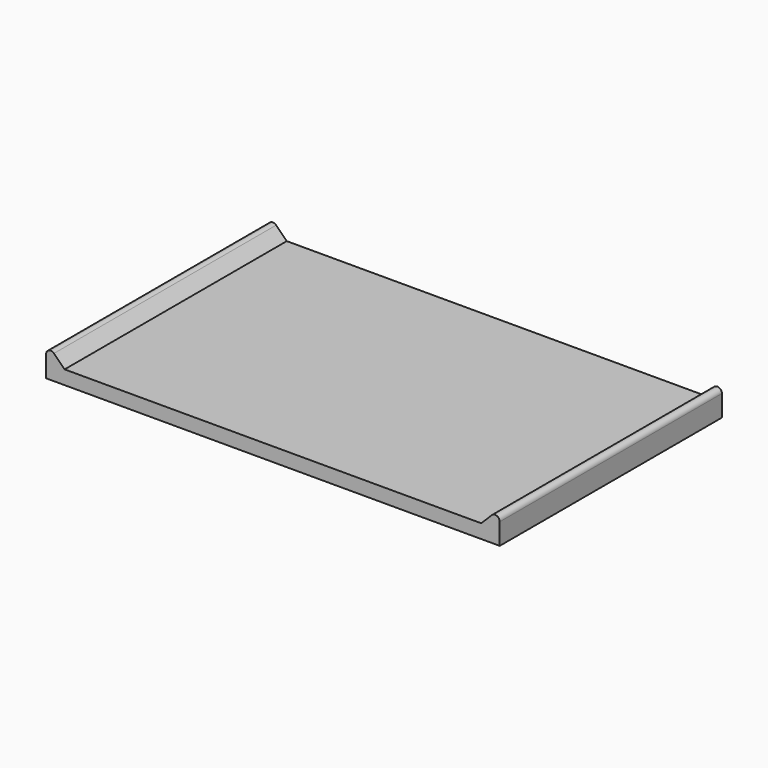
from build123d import *

# Parameters (mm, degrees)
F1_DEPTH = 15
F2_R     = 0.5


with BuildPart() as f1:
    # F0 (on Front) → F1 (new body, symmetric)
    with BuildSketch(Plane.XZ):
        Polygon((-24.5, 1.5), (-24.5, 0), (24.5, 0), (24.5, 1.5), (22.5, 1.5), (-22.5, 1.5), align=None)
        Polygon((-24.5, 3.5), (-24.5, 1.5), (-22.5, 1.5), align=None)
        Polygon((22.5, 1.5), (24.5, 1.5), (24.5, 3.5), align=None)
    extrude(amount=F1_DEPTH, both=True)

    # F2
    f2_edges = [f1.edges().sort_by_distance(p)[0] for p in [
        (-24.5, 0, 3.5),
        (24.5, 0, 3.5),
    ]]
    fillet(f2_edges, radius=F2_R)


solid = f1.part
